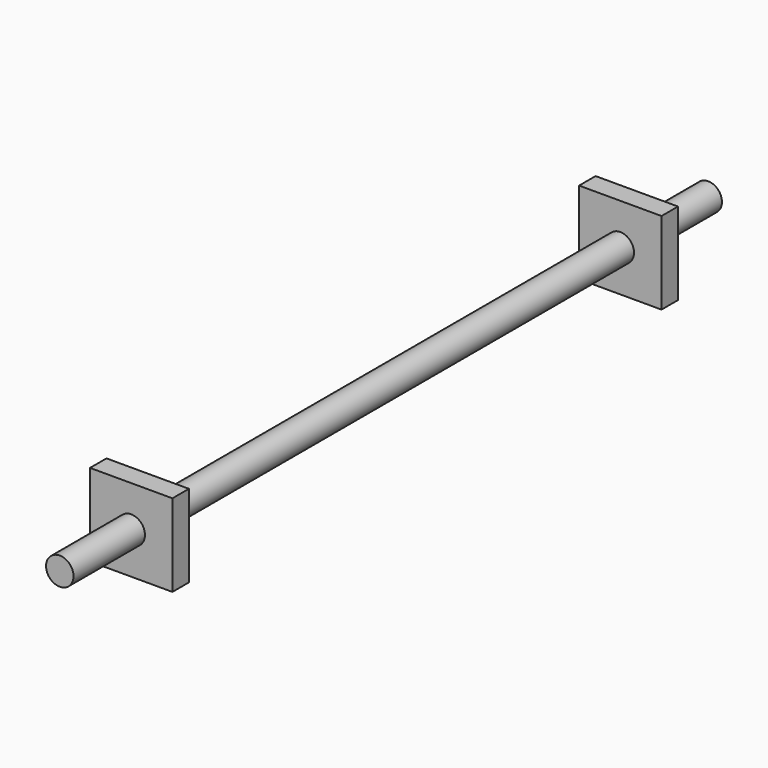
from build123d import *

# Parameters (mm, degrees)
F0_R     = 3.175
F1_DEPTH = 136.5504
F2_W     = 19.05
F2_H     = 19.05
F3_DEPTH = 4.7625
F4_W     = 19.05
F4_H     = 19.05
F5_DEPTH = 4.7625
F6_R     = 3.175
F7_DEPTH = 25.4
F8_R     = 3.175
F9_DEPTH = 25.4


with BuildPart() as f1:
    # F0 (on Front) → F1 (new body)
    with BuildSketch(Plane.XZ):
        Circle(F0_R)
    extrude(amount=F1_DEPTH)

    # F2 (on face) → F3 (join)
    with BuildSketch(Plane.XZ.offset(136.5504)):
        Rectangle(F2_W, F2_H)
    extrude(amount=F3_DEPTH)

    # F4 (on face) → F5 (join)
    with BuildSketch(Plane(origin=(0, 0, 0), x_dir=(-1, 0, 0), z_dir=(0, 1, 0))):
        Rectangle(F4_W, F4_H)
    extrude(amount=F5_DEPTH)

    # F6 (on face) → F7 (join)
    with BuildSketch(Plane.XZ.offset(136.5504)):
        Circle(F6_R)
    extrude(amount=F7_DEPTH)

    # F8 (on face) → F9 (join)
    with BuildSketch(Plane(origin=(0, 0, 0), x_dir=(-1, 0, 0), z_dir=(0, 1, 0))):
        Circle(F8_R)
    extrude(amount=F9_DEPTH)


solid = f1.part
